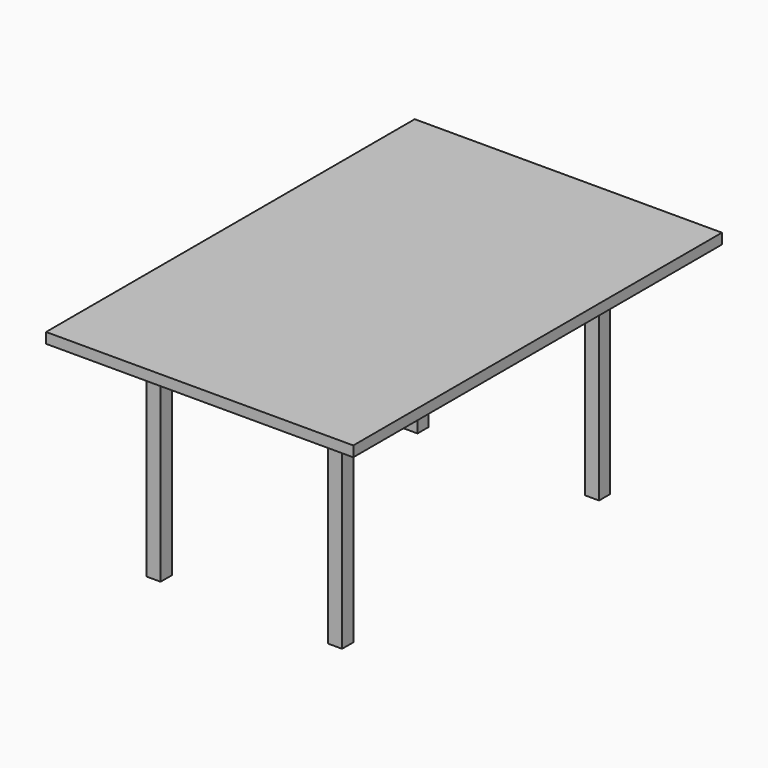
from build123d import *

# Parameters (mm, degrees)
F0_W     = 1117.6
F0_H     = 1676.4
F1_DEPTH = 38.1
F2_W     = 50.8
F2_H     = 50.8
F3_DEPTH = 762


with BuildPart() as f1:
    # F0 (on Top) → F1 (new body)
    with BuildSketch(Plane.XY):
        with Locations((558.8, -838.2)):
            Rectangle(F0_W, F0_H)
    extrude(amount=F1_DEPTH)

    # F2 (on face) → F3 (join)
    with BuildSketch(Plane(origin=(0, 0, 0), x_dir=(1, 0, 0), z_dir=(0, 0, -1))):
        with Locations((228.6, 1447.8)):
            Rectangle(F2_W, F2_H)
        with Locations((889, 1447.8)):
            Rectangle(F2_W, F2_H)
        with Locations((889, 279.4)):
            Rectangle(F2_W, F2_H)
        with Locations((228.6, 279.4)):
            Rectangle(F2_W, F2_H)
    extrude(amount=F3_DEPTH)


solid = f1.part
